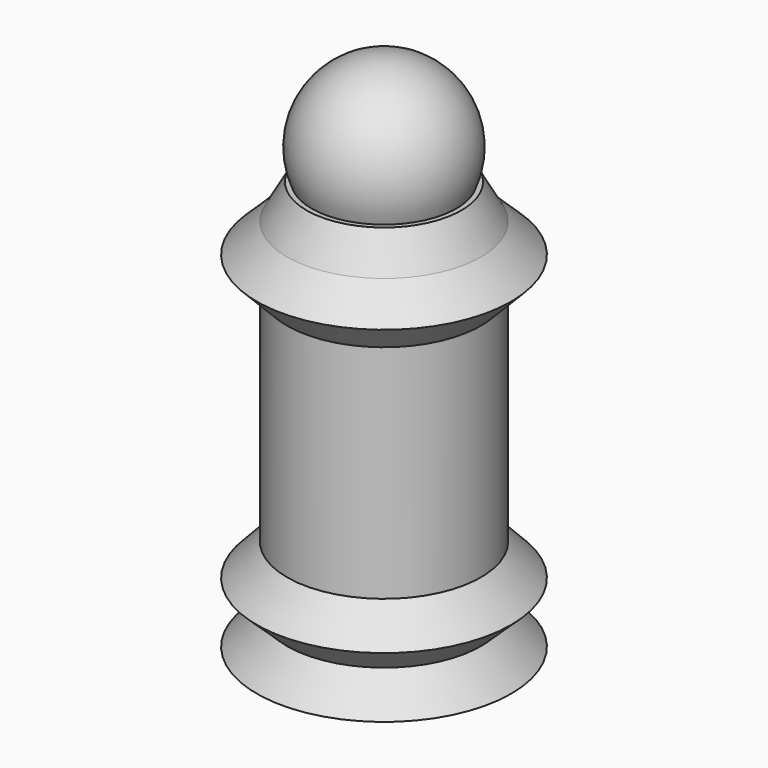
from build123d import *


with BuildPart() as f1:
    # F0 (on Front) → F1 (revolve)
    with BuildSketch(Plane.XZ):
        with BuildLine():
            Line((-127, -313.5034940381), (0, -313.5034940381))
            Line((0, -313.5034940381), (0, 47.2427905894))
            ThreePointArc((0, 47.2427905894), (-43.33589305, 60.2683573909), (-72.3088875669, 95.0279690929))
            Line((-72.3088875669, 95.0279690929), (-77.2657315655, 95.0279690929))
            Line((-77.2657315655, 95.0279690929), (-96.8041911668, 60.4169920036))
            Line((-96.8041911668, 60.4169920036), (-127, 31.083915673))
            Line((-127, 31.083915673), (-96.8041911668, 0))
            Line((-96.8041911668, 0), (-96.8041911668, -221.0411665642))
            Line((-96.8041911668, -221.0411665642), (-127, -253.0131974713))
            Line((-127, -253.0131974713), (-96.8041911668, -281.531463131))
            Line((-96.8041911668, -281.531463131), (-127, -313.5034940381))
        make_face()
        with BuildLine():
            ThreePointArc((-72.3088875669, 95.0279690929), (-43.33589305, 60.2683573909), (0, 47.2427905894))
            Line((0, 47.2427905894), (0, 204.4463156366))
            ThreePointArc((0, 204.4463156366), (-65.5761957221, 169.180446163), (-72.3088875669, 95.0279690929))
        make_face()
    revolve(axis=Axis((0, 0, 67.4965227503), (0, 0, -1)))


solid = f1.part
